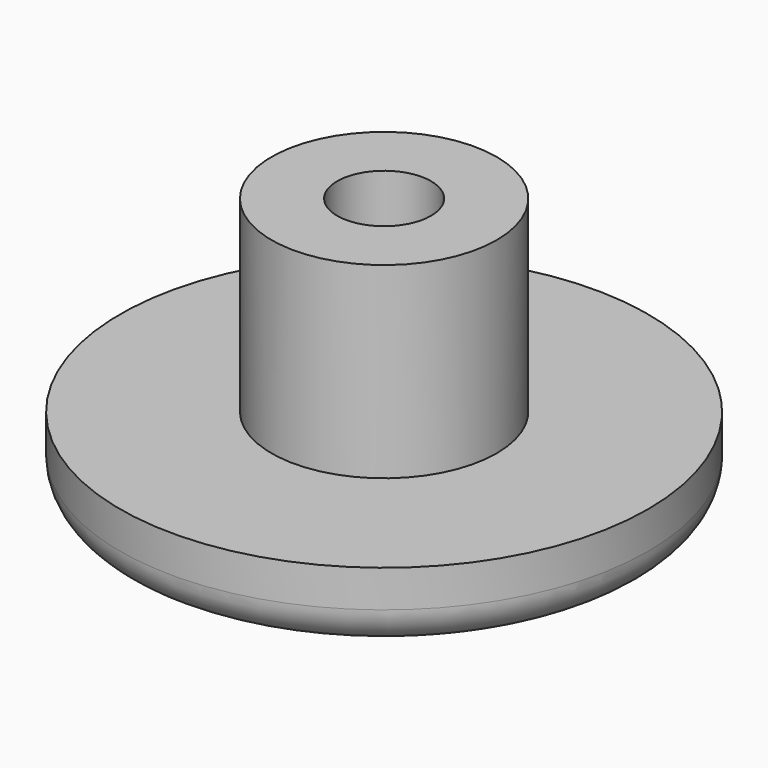
from build123d import *

# Parameters (mm, degrees)
F0_R     = 14.2875
F0_R_2   = 6.096
F0_R_3   = 2.54
F1_DEPTH = 4.064
F2_DEPTH = 14.224
F3_R     = 2.05802


with BuildPart() as f1:
    # F0 (on Top) → F1 (new body)
    with BuildSketch(Plane.XY):
        Circle(F0_R)
        Circle(F0_R_2, mode=Mode.SUBTRACT)
        Circle(F0_R_2)
        Circle(F0_R_3, mode=Mode.SUBTRACT)
    extrude(amount=F1_DEPTH)

    # F0 (on Top) → F2 (join)
    with BuildSketch(Plane.XY):
        Circle(F0_R_2)
        Circle(F0_R_3, mode=Mode.SUBTRACT)
    extrude(amount=F2_DEPTH)

    # F3
    f3_edges = [f1.edges().sort_by_distance(p)[0] for p in [
        (-14.2875, 0, 0),
    ]]
    fillet(f3_edges, radius=F3_R)


solid = f1.part
